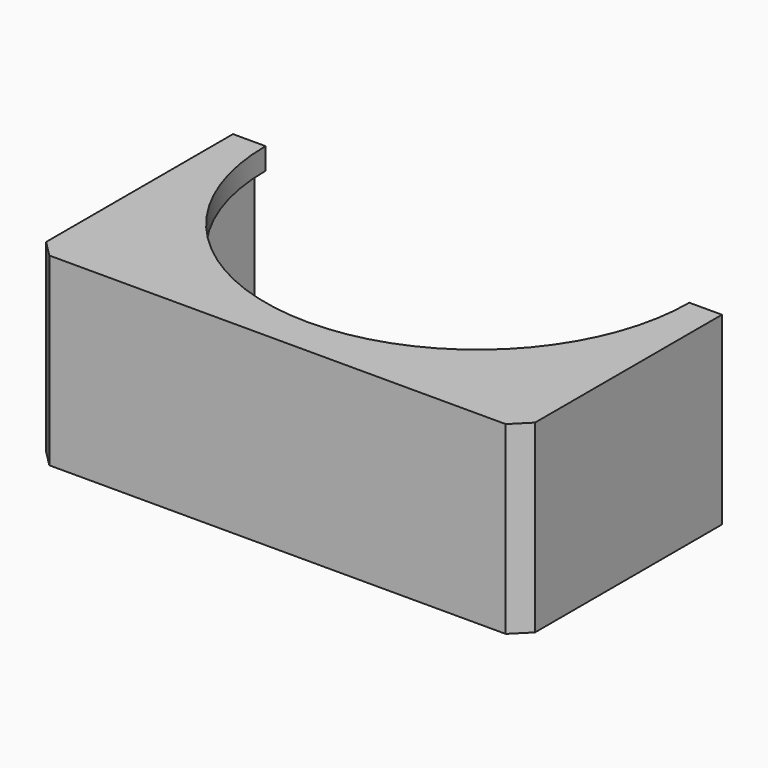
from build123d import *

# Parameters (mm, degrees)
SKETCH001_W     = 45
SKETCH001_H     = 23
PAD001_DEPTH    = 17
SKETCH002_W     = 41
SKETCH002_H     = 13
POCKET_DEPTH    = 21
SKETCH003_R     = 19.5
POCKET001_DEPTH = 17.001
CHAMFER_SIZE    = 1.5


with BuildPart() as part:
    # Sketch001 → Pad001 (new body)
    with BuildSketch(Plane.XY):
        with Locations((0, -11.5)):
            Rectangle(SKETCH001_W, SKETCH001_H)
    extrude(amount=PAD001_DEPTH)

    # Sketch002 (on Face1 of Pad001) → Pocket (cut)
    with BuildSketch(Plane(origin=(0, 0, 0), x_dir=(-1, 0, 0), z_dir=(0, 1, 0))):
        with Locations((0, 8.5)):
            Rectangle(SKETCH002_W, SKETCH002_H)
    extrude(amount=-POCKET_DEPTH, mode=Mode.SUBTRACT)

    # Sketch003 (on Face4 of Pocket) → Pocket001 (cut, through all)
    with BuildSketch(Plane.XY.offset(17)):
        Circle(SKETCH003_R)
    extrude(amount=-POCKET001_DEPTH, mode=Mode.SUBTRACT)

    # Chamfer
    chamfer_edges = [part.edges().sort_by_distance(p)[0] for p in [
        (-22.5, -23, 8.5),
        (22.5, -23, 8.5),
    ]]
    chamfer(chamfer_edges, length=CHAMFER_SIZE)


solid = part.part
